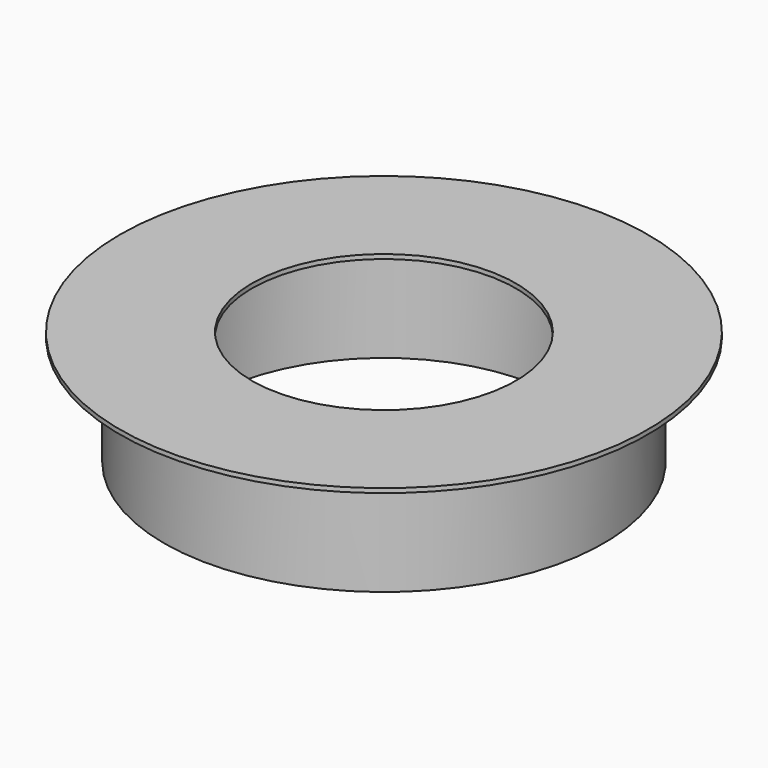
from build123d import *

# Parameters (mm, degrees)
F0_W     = 2.54
F0_H     = 6.35
F0_H_2   = 0.254
F2_R     = 0.9525
F3_DEPTH = 5.08


with BuildPart() as f1:
    # F0 (on Front) → F1 (revolve)
    with BuildSketch(Plane.XZ):
        Polygon((-12.7, 2.794), (-12.7, 2.54), (-10.16, 2.54), (-7.62, 2.54), (-7.62, 2.794), align=None)
        with Locations((-11.43, -0.635)):
            Rectangle(F0_W, F0_H)
        with Locations((-13.97, 2.667)):
            Rectangle(F0_W, F0_H_2)
    revolve(axis=Axis((0, 0, 0.05052), (0, 0, -1)))

    # F2 (on face) → F3 (cut)
    with BuildSketch(Plane(origin=(0, 0, -3.81), x_dir=(1, 0, 0), z_dir=(0, 0, -1))):
        with Locations((0, 11.43)):
            Circle(F2_R)
        with Locations((-11.43, 0)):
            Circle(F2_R)
        with Locations((11.43, 0)):
            Circle(F2_R)
        with Locations((0, -11.43)):
            Circle(F2_R)
    extrude(amount=-F3_DEPTH, mode=Mode.SUBTRACT)


solid = f1.part
